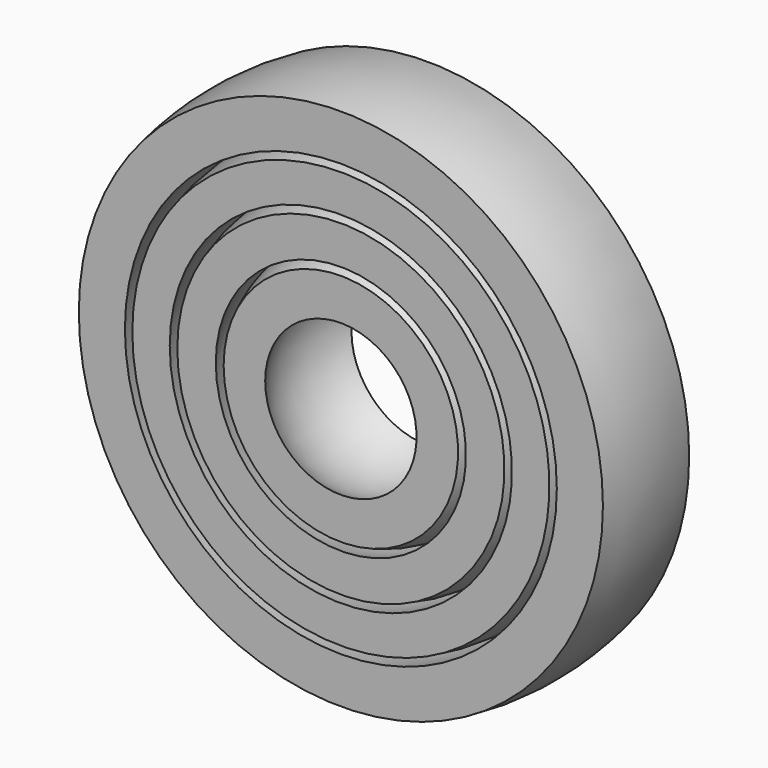
from build123d import *


with BuildPart() as f1:
    # F0 (on Top) → F1 (revolve)
    with BuildSketch(Plane.XY):
        with BuildLine():
            ThreePointArc((-23.857074, -6), (-24.6, 0), (-23.857074, 6))
            Line((-23.857074, 6), (-28.985514, 6))
            ThreePointArc((-28.985514, 6), (-29.6, 0), (-28.985514, -6))
            Line((-28.985514, -6), (-23.857074, -6))
        make_face()
        with BuildLine():
            ThreePointArc((-18.869022, -6), (-19.8, 0), (-18.869022, 6))
            Line((-18.869022, 6), (-23.031283, 6))
            ThreePointArc((-23.031283, 6), (-23.8, 0), (-23.031283, -6))
            Line((-23.031283, -6), (-18.869022, -6))
        make_face()
        with BuildLine():
            ThreePointArc((-13.747727, -6), (-15, 0), (-13.747727, 6))
            Line((-13.747727, 6), (-18.027756, 6))
            ThreePointArc((-18.027756, 6), (-19, 0), (-18.027756, -6))
            Line((-18.027756, -6), (-13.747727, -6))
        make_face()
        with BuildLine():
            Line((-8.248636, 6), (-12.87012, 6))
            ThreePointArc((-12.87012, 6), (-14.2, 0), (-12.87012, -6))
            Line((-12.87012, -6), (-8.248636, -6))
            ThreePointArc((-8.248636, -6), (-10.2, 0), (-8.248636, 6))
        make_face()
    revolve(axis=Axis((0.171485, 0.5, 0), (0, 1, 0)))


solid = f1.part
